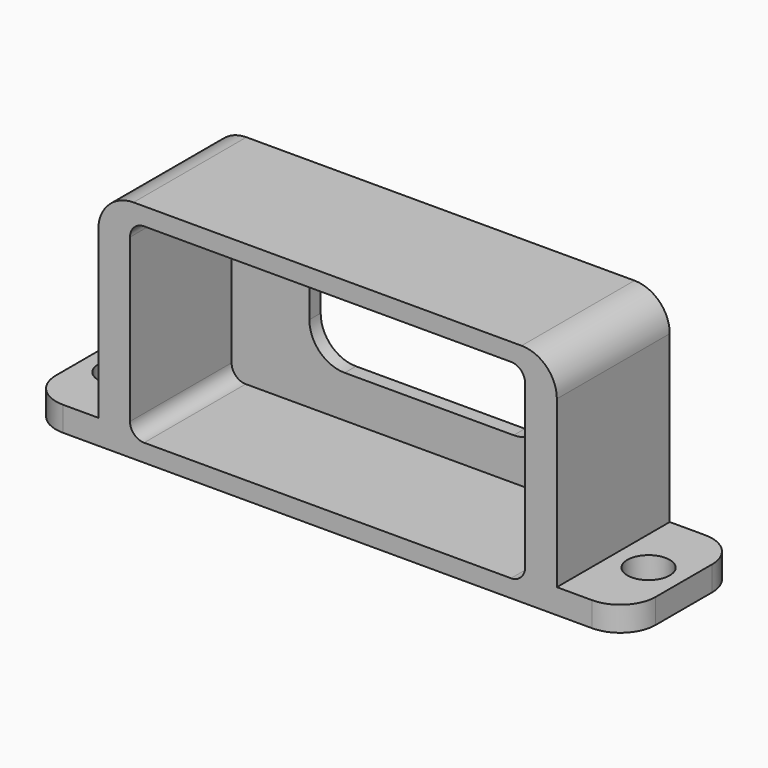
from build123d import *

# Parameters (mm, degrees)
F0_W      = 10
F0_H      = 3.5
F1_DEPTH  = 20
F2_R      = 3
F3_DEPTH  = 3.501
F6_R      = 5
F9_DEPTH  = 18
F10_DEPTH = 20.001
F11_R     = 5


with BuildPart() as f1:
    # F0 (on Front) → F1 (new body)
    with BuildSketch(Plane.XZ):
        with Locations((-70, 1.75)):
            Rectangle(F0_W, F0_H)
        Polygon((-65, 0), (0, 0), (0, 3.5), (0, 32), (-65, 32), (-65, 3.5), align=None)
        with Locations((5, 1.75)):
            Rectangle(F0_W, F0_H)
    extrude(amount=F1_DEPTH)

    # F2 (on face) → F3 (cut, through all)
    with BuildSketch(Plane.XY.offset(3.5)):
        with Locations((5, -10)):
            Circle(F2_R)
    f3 = extrude(amount=-F3_DEPTH, mode=Mode.SUBTRACT)

    # F5: F3 across plane
    add(f3.mirror(Plane.YZ.offset(-32.5)), mode=Mode.SUBTRACT)

    # F6
    f6_edges = [f1.edges().sort_by_distance(p)[0] for p in [
        (0, -10, 32),
        (-65, -10, 32),
    ]]
    fillet(f6_edges, radius=F6_R)

    # F8 (on face) → F9 (cut)
    with BuildSketch(Plane.XZ.offset(20)):
        with BuildLine():
            Line((-58.5, 2.5), (-6.5, 2.5))
            ThreePointArc((-6.5, 2.5), (-5.0857864376, 3.0857864376), (-4.5, 4.5))
            Line((-4.5, 4.5), (-4.5, 27.5))
            ThreePointArc((-4.5, 27.5), (-5.0857864376, 28.9142135624), (-6.5, 29.5))
            Line((-6.5, 29.5), (-58.5, 29.5))
            ThreePointArc((-58.5, 29.5), (-59.9142135624, 28.9142135624), (-60.5, 27.5))
            Line((-60.5, 27.5), (-60.5, 4.5))
            ThreePointArc((-60.5, 4.5), (-59.9142135624, 3.0857864376), (-58.5, 2.5))
        make_face()
    extrude(amount=-F9_DEPTH, mode=Mode.SUBTRACT)

    # F7 (on face) → F10 (cut, through all)
    with BuildSketch(Plane(origin=(0, 0, 0), x_dir=(-1, 0, 0), z_dir=(0, 1, 0))):
        with BuildLine():
            ThreePointArc((15.5251769957, 13.4682242014), (16.9896430898, 9.9326902954), (20.5251769957, 8.4682242014))
            Line((20.5251769957, 8.4682242014), (44.4748230043, 8.4682242014))
            ThreePointArc((44.4748230043, 8.4682242014), (48.0103569102, 9.9326902954), (49.4748230043, 13.4682242014))
            Line((49.4748230043, 13.4682242014), (49.4748230043, 18.5317757986))
            ThreePointArc((49.4748230043, 18.5317757986), (48.0103569102, 22.0673097046), (44.4748230043, 23.5317757986))
            Line((44.4748230043, 23.5317757986), (20.5251769957, 23.5317757986))
            ThreePointArc((20.5251769957, 23.5317757986), (16.9896430898, 22.0673097046), (15.5251769957, 18.5317757986))
            Line((15.5251769957, 18.5317757986), (15.5251769957, 13.4682242014))
        make_face()
    extrude(amount=-F10_DEPTH, mode=Mode.SUBTRACT)

    # F11
    f11_edges = [f1.edges().sort_by_distance(p)[0] for p in [
        (-75, -20, 1.75),
        (-75, 0, 1.75),
        (10, -20, 1.75),
        (10, 0, 1.75),
    ]]
    fillet(f11_edges, radius=F11_R)


solid = f1.part
